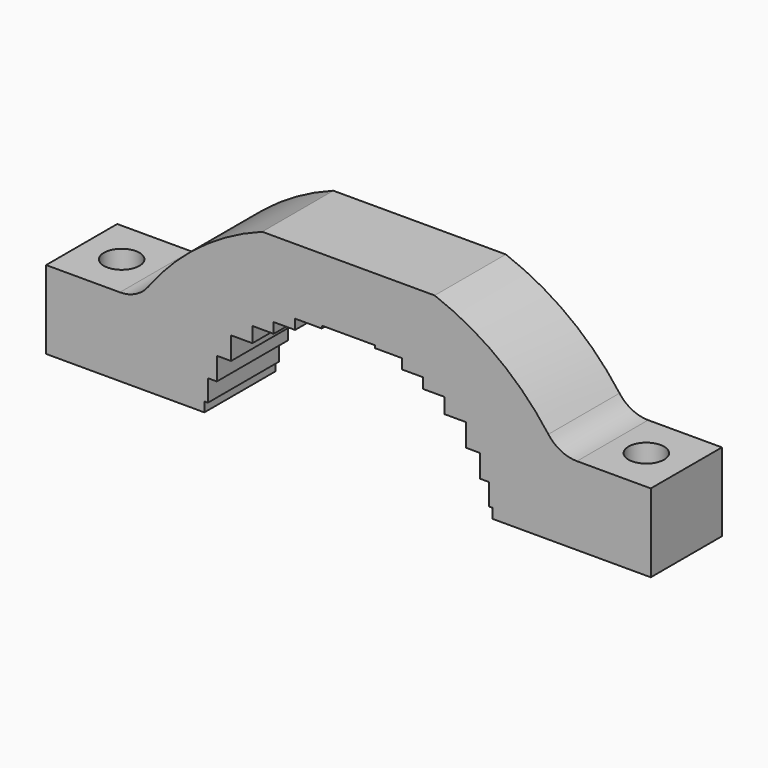
from build123d import *

# Parameters (mm, degrees)
F0_W     = 170
F0_H     = 25
F1_DEPTH = 50
F2_R     = 5
F3_DEPTH = 50.001
F5_DEPTH = 25.001
F7_DEPTH = 25.001
F8_R     = 10


with BuildPart() as f1:
    # F0 (on Top) → F1 (new body)
    with BuildSketch(Plane.XY):
        with Locations((85, 12.5)):
            Rectangle(F0_W, F0_H)
    extrude(amount=F1_DEPTH)

    # F2 (on face) → F3 (cut, through all)
    with BuildSketch(Plane.XY.offset(50)):
        with Locations((11.25, 12.5)):
            Circle(F2_R)
        with Locations((158.75, 12.5)):
            Circle(F2_R)
    extrude(amount=-F3_DEPTH, mode=Mode.SUBTRACT)

    # F4 (on face) → F5 (cut, through all)
    with BuildSketch(Plane.XZ):
        Polygon((100, 31.5), (92.5, 31.5), (92.5, 32.220282), (85, 32.220282), (77.5, 32.220282), (77.5, 31.5), (70, 31.5), (70, 28.694315), (64, 28.694315), (64, 25.794553), (58, 25.794553), (58, 21.515869), (52, 21.515869), (52, 15.164459), (48, 15.164459), (48, 8.794946), (45.5, 8.794946), (45.5, 2.727922), (44.5, 2.727922), (44.5, 0), (125.5, 0), (125.5, 2.727922), (124.5, 2.727922), (124.5, 8.794946), (122, 8.794946), (122, 15.164459), (118, 15.164459), (118, 21.515869), (112, 21.515869), (112, 25.794553), (106, 25.794553), (106, 28.694315), (100, 28.694315), align=None)
    extrude(amount=-F5_DEPTH, mode=Mode.SUBTRACT)

    # F6 (on face) → F7 (cut, through all)
    with BuildSketch(Plane(origin=(0, 25, 0), x_dir=(-1, 0, 0), z_dir=(0, 1, 0))):
        with BuildLine():
            Line((-170, 22), (-144, 22))
            ThreePointArc((-144, 22), (-128.910808, 38.844978), (-109.23843, 50))
            Line((-109.23843, 50), (-170, 50))
            Line((-170, 50), (-170, 22))
        make_face()
        with BuildLine():
            Line((-26, 22), (0, 22))
            Line((0, 22), (0, 50))
            Line((0, 50), (-60.76157, 50))
            ThreePointArc((-60.76157, 50), (-41.089192, 38.844978), (-26, 22))
        make_face()
    extrude(amount=-F7_DEPTH, mode=Mode.SUBTRACT)

    # F8
    f8_edges = [f1.edges().sort_by_distance(p)[0] for p in [
        (144, 12.5, 22),
        (26, 12.5, 22),
    ]]
    fillet(f8_edges, radius=F8_R)


solid = f1.part
